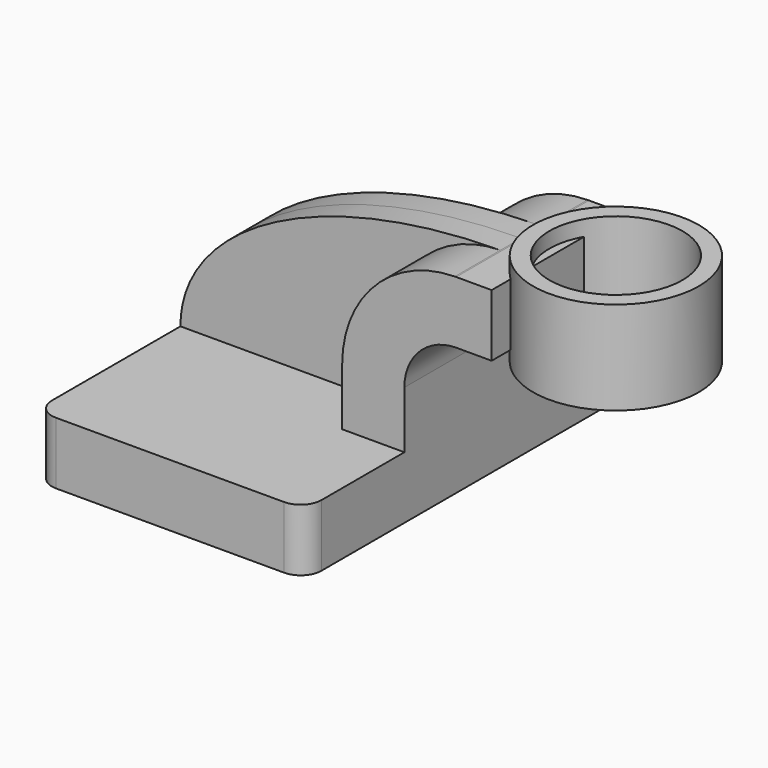
from build123d import *

# Parameters (mm, degrees)
F1_DEPTH = 63.5
F0_W     = 7.6746088147
F0_H     = 19.05
F2_DEPTH = 25.4
F3_DEPTH = 7.9375
F0_W_2   = 5.0253911853
F0_H_2   = 28.575
F5_R     = 6.35


with BuildPart() as f1:
    # F0 (on Front) → F1 (new body, symmetric)
    with BuildSketch(Plane.XZ):
        Polygon((-41.275, -9.525), (41.275, -9.525), (41.275, 9.525), (22.225, 9.525), (-41.275, 9.525), align=None)
    extrude(amount=F1_DEPTH, both=True)

    # F0 (on Front) → F2 (join, symmetric)
    with BuildSketch(Plane.XZ):
        with BuildLine():
            Line((22.225, 9.525), (41.275, 9.525))
            Line((41.275, 9.525), (41.275, 27.0002))
            ThreePointArc((41.275, 27.0002), (45.9246798487, 38.2255201513), (57.15, 42.8752))
            Line((57.15, 42.8752), (60.325, 42.8752))
            Line((60.325, 42.8752), (60.325, 61.9252))
            Line((60.325, 61.9252), (57.15, 61.9252))
            add(Edge.make_bspline(
                [(57.15, 61.9252), (57.0081649495, 61.9244790011), (56.8664276787, 61.9236160554), (56.7247885758, 61.9226114323)],
                knots=[0, 0, 0, 0, 0.27673231, 0.27673231, 0.27673231, 0.27673231], degree=3))
            ThreePointArc((56.7247885758, 61.9226114323), (32.3044155433, 51.5451090038), (22.225, 27.0002))
            Line((22.225, 27.0002), (22.225, 9.525))
        make_face()
        with Locations((64.1623044074, 52.4002)):
            Rectangle(F0_W, F0_H)
    extrude(amount=F2_DEPTH, both=True)

    # F0 (on Front) → F3 (join, symmetric)
    with BuildSketch(Plane.XZ):
        with BuildLine():
            add(Edge.make_bspline(
                [(56.7247885758, 61.9226114323), (-0.2046186236, 61.5188203951), (-41.275, 38.2270255061), (-41.275, 9.525)],
                knots=[0.27673231, 0.27673231, 0.27673231, 0.27673231, 111.5045361635, 111.5045361635, 111.5045361635, 111.5045361635], degree=3))
            Line((-41.275, 9.525), (22.225, 9.525))
            Line((22.225, 9.525), (22.225, 27.0002))
            ThreePointArc((22.225, 27.0002), (32.3044155433, 51.5451090038), (56.7247885758, 61.9226114323))
        make_face()
    extrude(amount=F3_DEPTH, both=True)

    # F0 (on Front) → F4 (revolve)
    with BuildSketch(Plane.XZ):
        with Locations((108.6123044074, 52.3875)):
            Rectangle(F0_W_2, F0_H_2)
    revolve(axis=Axis((85.725, 0, 52.3875), (0, 0, 1)))

    # F5
    f5_edges = [f1.edges().sort_by_distance(p)[0] for p in [
        (41.275, -63.5, 0),
        (-41.275, -63.5, 0),
        (41.275, 63.5, 0),
        (-41.275, 63.5, 0),
    ]]
    fillet(f5_edges, radius=F5_R)


solid = f1.part
